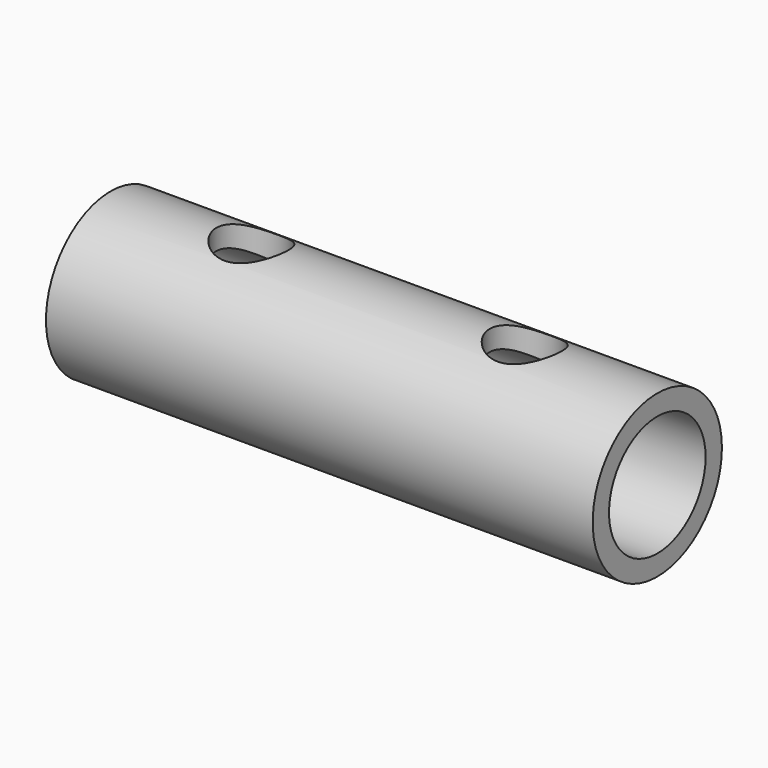
from build123d import *

# Parameters (mm, degrees)
F0_W     = 25.4
F0_H     = 25.4
F1_DEPTH = 72.25612
F2_R     = 7.977786
F3_DEPTH = 82.87319
F5_D     = 8.89
F5_DEPTH = 12.7
F2_W     = 25.4
F2_H     = 25.4
F2_R_2   = 10.673918
F6_DEPTH = 88.86488


with BuildPart() as f1:
    # F0 (on Right) → F1 (new body)
    with BuildSketch(Plane.YZ):
        with Locations((-33.407167, -34.459156)):
            Rectangle(F0_W, F0_H)
    extrude(amount=F1_DEPTH)

    # F2 (on face) → F3 (cut)
    with BuildSketch(Plane.YZ.offset(72.25612)):
        with Locations((-34.093928, -34.619924)):
            Circle(F2_R)
    extrude(amount=-F3_DEPTH, mode=Mode.SUBTRACT)

    # F5
    with Locations(Plane.XY.offset(-21.759156)):
        with Locations((18.0594, -33.407167), (54.18746, -33.407167)):
            Hole(F5_D / 2, depth=F5_DEPTH)

    # F2 (on face) → F6 (cut)
    with BuildSketch(Plane.YZ.offset(72.25612)):
        with Locations((-33.407167, -34.459156)):
            Rectangle(F2_W, F2_H)
        with Locations((-34.093928, -34.619924)):
            Circle(F2_R_2, mode=Mode.SUBTRACT)
    extrude(amount=-F6_DEPTH, mode=Mode.SUBTRACT)


solid = f1.part
